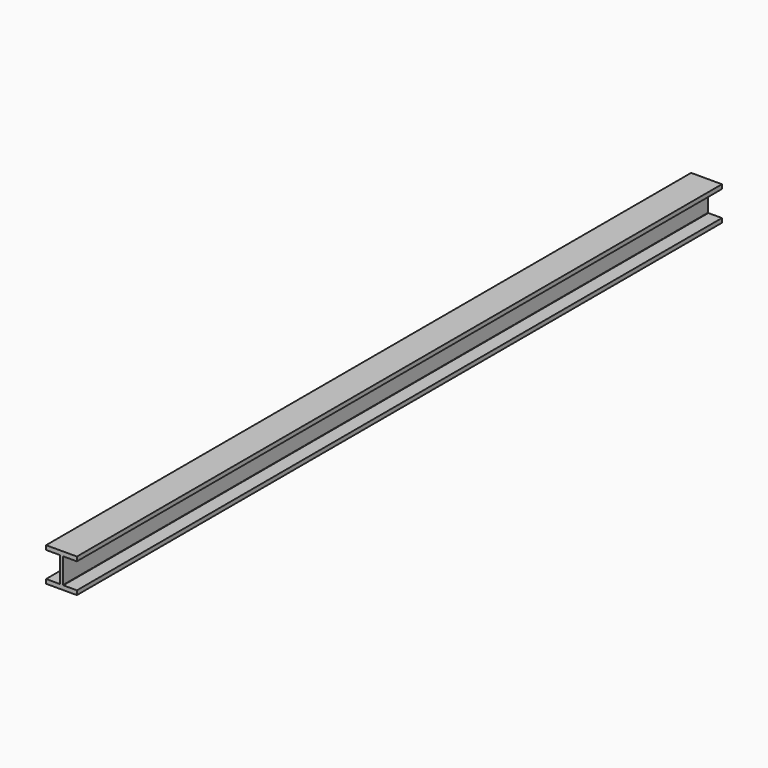
from build123d import *

# Parameters (mm, degrees)
F1_DEPTH = 2409.825


with BuildPart() as f1:
    # F0 (on Front) → F1 (new body, symmetric)
    with BuildSketch(Plane.XZ):
        with BuildLine():
            Line((92.075, -101.6), (92.075, -76.2))
            Line((92.075, -76.2), (12.065, -76.2))
            ThreePointArc((12.065, -76.2), (10.268949, -75.456051), (9.525, -73.66))
            Line((9.525, -73.66), (9.525, 73.66))
            ThreePointArc((9.525, 73.66), (10.268949, 75.456051), (12.065, 76.2))
            Line((12.065, 76.2), (92.075, 76.2))
            Line((92.075, 76.2), (92.075, 101.6))
            Line((92.075, 101.6), (-92.075, 101.6))
            Line((-92.075, 101.6), (-92.075, 76.2))
            Line((-92.075, 76.2), (-12.065, 76.2))
            ThreePointArc((-12.065, 76.2), (-10.268949, 75.456051), (-9.525, 73.66))
            Line((-9.525, 73.66), (-9.525, -73.66))
            ThreePointArc((-9.525, -73.66), (-10.268949, -75.456051), (-12.065, -76.2))
            Line((-12.065, -76.2), (-92.075, -76.2))
            Line((-92.075, -76.2), (-92.075, -101.6))
            Line((-92.075, -101.6), (92.075, -101.6))
        make_face()
    extrude(amount=F1_DEPTH, both=True)


solid = f1.part
